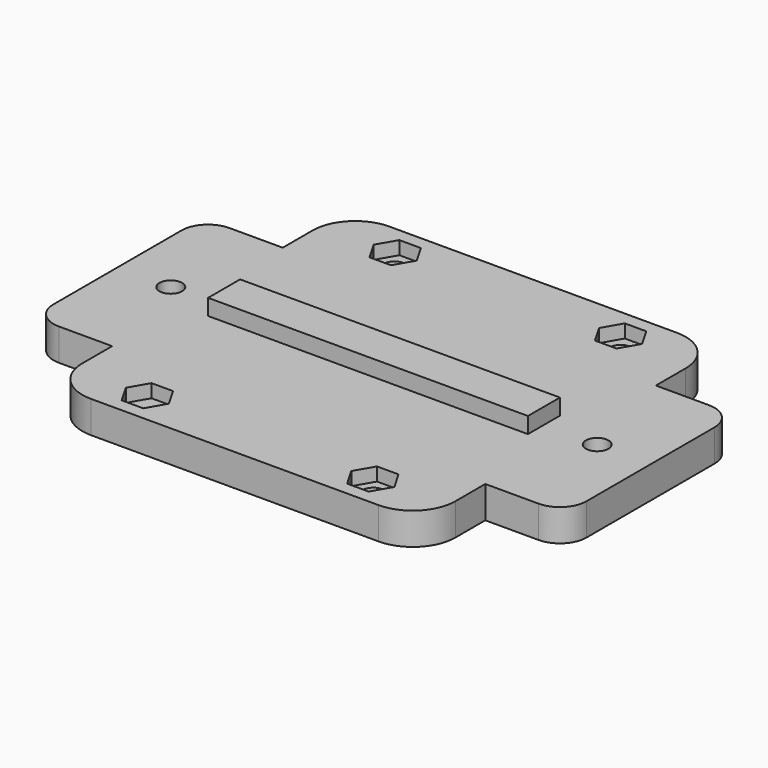
from build123d import *

# Parameters (mm, degrees)
F0_W     = 70
F0_H     = 40
F0_W_2   = 60
F0_H_2   = 7.5
F0_R     = 2.05
F0_R_2   = 2.125
F1_DEPTH = 6
F2_DEPTH = 3
F3_SIZE  = 1.5
F5_DEPTH = 2.5


with BuildPart() as f1:
    # F0 (on Top) → F1 (new body)
    with BuildSketch(Plane.XY):
        Rectangle(F0_W, F0_H)
        Rectangle(F0_W_2, F0_H_2, mode=Mode.SUBTRACT)
        with BuildLine():
            ThreePointArc((35, 27), (32.6568542495, 32.6568542495), (27, 35))
            Line((27, 35), (-27, 35))
            ThreePointArc((-27, 35), (-32.6568542495, 32.6568542495), (-35, 27))
            Line((-35, 27), (-35, 20))
            Line((-35, 20), (35, 20))
            Line((35, 20), (35, 27))
        make_face()
        with Locations((-21.2, 29)):
            Circle(F0_R, mode=Mode.SUBTRACT)
        with Locations((21.2, 29)):
            Circle(F0_R, mode=Mode.SUBTRACT)
        with BuildLine():
            Line((35, -27), (35, -20))
            Line((35, -20), (-35, -20))
            Line((-35, -20), (-35, -27))
            ThreePointArc((-35, -27), (-32.6568542495, -32.6568542495), (-27, -35))
            Line((-27, -35), (27, -35))
            ThreePointArc((27, -35), (32.6568542495, -32.6568542495), (35, -27))
        make_face()
        with Locations((-21.2, -29)):
            Circle(F0_R, mode=Mode.SUBTRACT)
        with Locations((21.2, -29)):
            Circle(F0_R, mode=Mode.SUBTRACT)
        with BuildLine():
            Line((45, 20), (35, 20))
            Line((35, 20), (35, -20))
            Line((35, -20), (45, -20))
            ThreePointArc((45, -20), (48.5355339059, -18.5355339059), (50, -15))
            Line((50, -15), (50, 15))
            ThreePointArc((50, 15), (48.5355339059, 18.5355339059), (45, 20))
        make_face()
        with Locations((40, 0)):
            Circle(F0_R_2, mode=Mode.SUBTRACT)
        with BuildLine():
            Line((-35, -20), (-35, 20))
            Line((-35, 20), (-45, 20))
            ThreePointArc((-45, 20), (-48.5355339059, 18.5355339059), (-50, 15))
            Line((-50, 15), (-50, -15))
            ThreePointArc((-50, -15), (-48.5355339059, -18.5355339059), (-45, -20))
            Line((-45, -20), (-35, -20))
        make_face()
        with Locations((-40, 0)):
            Circle(F0_R_2, mode=Mode.SUBTRACT)
        Rectangle(F0_W_2, F0_H_2)
        with Locations((-21.2, -29)):
            Circle(F0_R)
    extrude(amount=-F1_DEPTH)

    # F0 (on Top) → F2 (join)
    with BuildSketch(Plane.XY):
        Rectangle(F0_W_2, F0_H_2)
    extrude(amount=F2_DEPTH)

    # F3
    f3_edges = [f1.edges().sort_by_distance(p)[0] for p in [
        (-42.125, 0, -6),
        (37.875, 0, -6),
    ]]
    chamfer(f3_edges, length=F3_SIZE)

    # F4 (on Top) → F5 (cut)
    with BuildSketch(Plane.XY):
        Polygon((19.1289578016, -32.5574766695), (23.1704096859, -32.5574766695), (25.191135628, -29.0574766695), (23.1704096859, -25.5574766695), (19.1289578016, -25.5574766695), (17.1082318594, -29.0574766695), align=None)
        Polygon((-17.1082318594, -29.0574766695), (-19.1289578016, -25.5574766695), (-23.1704096859, -25.5574766695), (-25.191135628, -29.0574766695), (-23.1704096859, -32.5574766695), (-19.1289578016, -32.5574766695), align=None)
        Polygon((-23.1704096859, 25.5574766695), (-19.1289578016, 25.5574766695), (-17.1082318594, 29.0574766695), (-19.1289578016, 32.5574766695), (-23.1704096859, 32.5574766695), (-25.191135628, 29.0574766695), align=None)
        Polygon((19.1289578016, 32.5574766695), (17.1082318594, 29.0574766695), (19.1289578016, 25.5574766695), (23.1704096859, 25.5574766695), (25.191135628, 29.0574766695), (23.1704096859, 32.5574766695), align=None)
    extrude(amount=-F5_DEPTH, mode=Mode.SUBTRACT)


solid = f1.part
